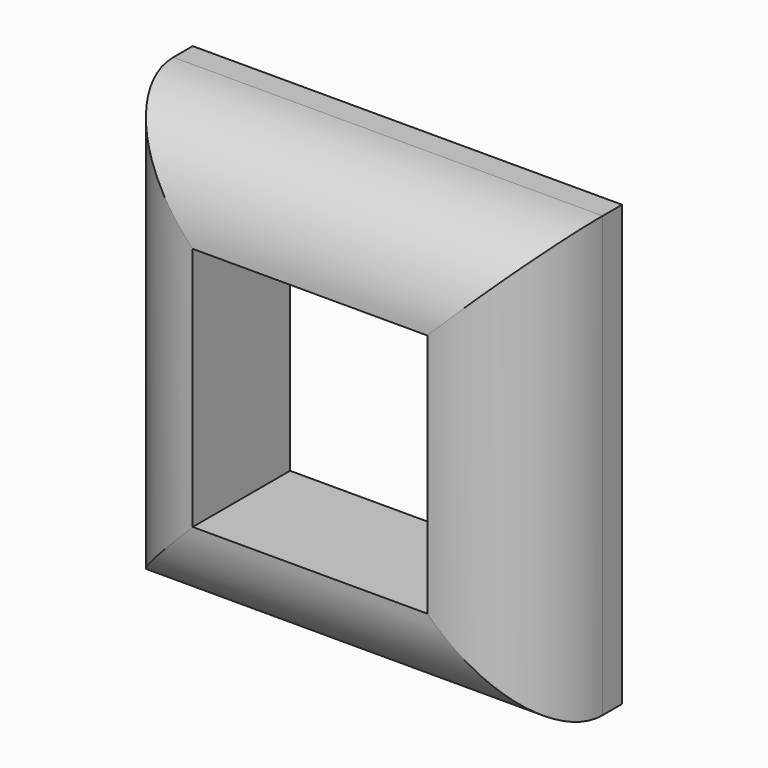
from build123d import *

# Parameters (mm, degrees)
F0_W      = 89.611202
F0_H      = 91.744802
F1_DEPTH  = 25.4
F2_R      = 20.32
F3_W      = 49.377598
F3_H      = 50.9016
F1_FACE_W = 48.971202
F1_FACE_H = 51.104802
F4_DEPTH  = 127


with BuildPart() as f1:
    # F0 (on Front) → F1 (new body)
    with BuildSketch(Plane.XZ):
        Rectangle(F0_W, F0_H)
    extrude(amount=F1_DEPTH)

    # F2
    f2_edges = [f1.edges().sort_by_distance(p)[0] for p in [
        (44.805601, -25.4, 0),
        (0, -25.4, 45.872401),
        (-44.805601, -25.4, 0),
        (0, -25.4, -45.872401),
    ]]
    fillet(f2_edges, radius=F2_R)

    # F3 (on Front) + F1_face (on face) → F4 (cut)
    with BuildSketch(Plane.XZ):
        Rectangle(F3_W, F3_H)
    with BuildSketch(Plane.XZ.offset(25.4)):
        Rectangle(F1_FACE_W, F1_FACE_H)
    extrude(amount=-F4_DEPTH, mode=Mode.SUBTRACT)


solid = f1.part
